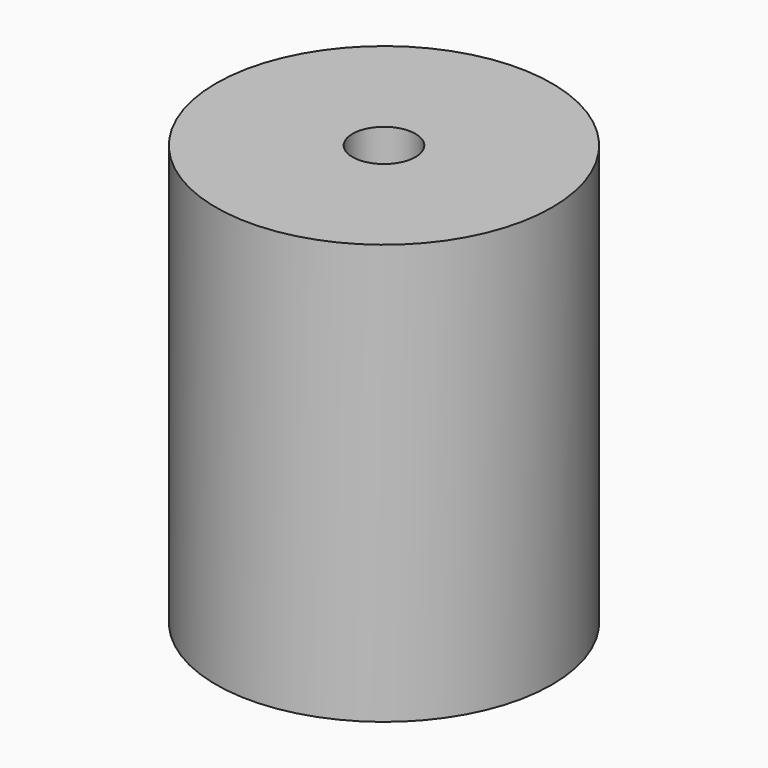
from build123d import *

# Parameters (mm, degrees)
F0_R     = 50.8
F1_DEPTH = 63.5
F2_D     = 19.05
F3_D     = 19.05


with BuildPart() as f1:
    # F0 (on Top) → F1 (new body, symmetric)
    with BuildSketch(Plane.XY):
        Circle(F0_R)
        Circle(F0_R)
    extrude(amount=F1_DEPTH, both=True)

    # F2 (through all)
    with Locations(Plane.XY):
        with Locations((0, 0)):
            Hole(F2_D / 2)

    # F3 (through all)
    with Locations(Plane(origin=(0, 0, 0), x_dir=(1, 0, 0), z_dir=(0, 0, -1))):
        with Locations((0, 0)):
            Hole(F3_D / 2)


solid = f1.part
